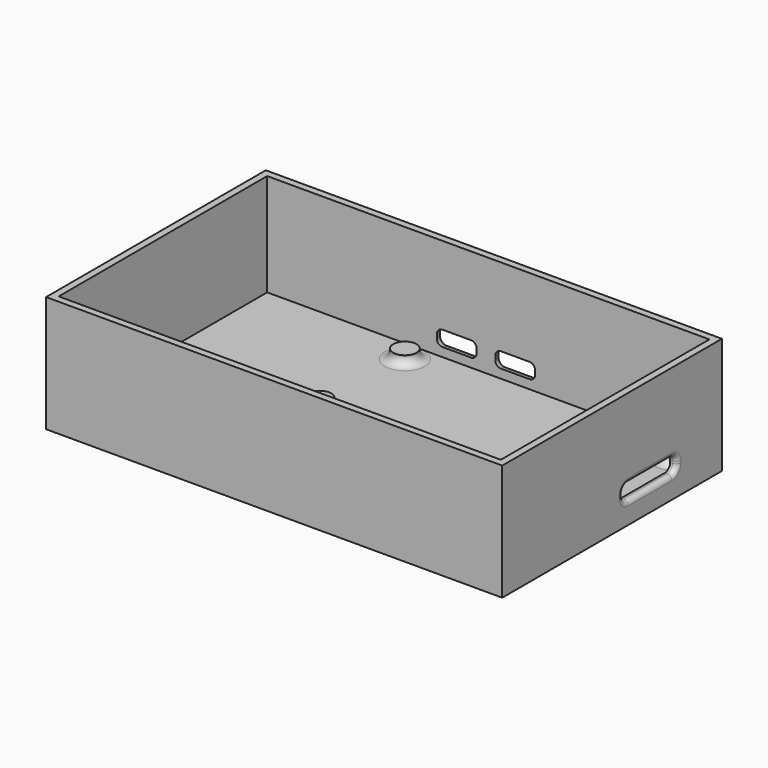
from build123d import *

# Parameters (mm, degrees)
SKETCH034_W     = 98
SKETCH034_H     = 59
PAD018_DEPTH    = 25
SKETCH035_W     = 95
SKETCH035_H     = 56
POCKET011_DEPTH = 22
SKETCH036_R     = 2.5
PAD019_DEPTH    = 2
FILLET005_R     = 1.8
POCKET012_DEPTH = 2
POCKET013_DEPTH = 2
FILLET006_R     = 1


with BuildPart() as part:
    # Sketch034 → Pad018 (new body)
    with BuildSketch(Plane.XY):
        Rectangle(SKETCH034_W, SKETCH034_H)
    extrude(amount=PAD018_DEPTH)

    # Sketch035 (on Face6 of Pad018) → Pocket011 (cut)
    with BuildSketch(Plane.XY.offset(25)):
        Rectangle(SKETCH035_W, SKETCH035_H)
    extrude(amount=-POCKET011_DEPTH, mode=Mode.SUBTRACT)

    # Sketch036 (on Face11 of Pocket011) → Pad019 (join)
    with BuildSketch(Plane.XY.offset(3)):
        with Locations((-14.34, 0.64)):
            Circle(SKETCH036_R)
        with Locations((-14.34, 23.535435)):
            Circle(SKETCH036_R)
        with Locations((43.701202, 23.535435)):
            Circle(SKETCH036_R)
        with Locations((43.701202, 0.64)):
            Circle(SKETCH036_R)
    extrude(amount=PAD019_DEPTH)

    # Fillet005
    fillet005_edges = [part.edges().sort_by_distance(p)[0] for p in [
        (-16.84, 23.535435, 3),
        (-16.84, 0.64, 3),
        (41.201202, 23.535435, 3),
        (41.201202, 0.64, 3),
    ]]
    fillet(fillet005_edges, radius=FILLET005_R)

    # Sketch038 (on Face16 of Fillet005) → Pocket012 (cut)
    with BuildSketch(Plane.YZ.offset(49)):
        with BuildLine():
            Line((2.9132905237, 6.4776863938), (2.9132905237, 6.0256358886))
            ThreePointArc((2.9132905237, 6.0256358886), (3.3291861446, 5.0215750402), (4.333246993, 4.6056794194))
            Line((4.333246993, 4.6056794194), (16.053786, 4.6056794194))
            ThreePointArc((16.053786, 4.6056794194), (17.0578468484, 5.0215750402), (17.4737424693, 6.0256358886))
            Line((17.4737424693, 6.0256358886), (17.4737424693, 6.4776863938))
            ThreePointArc((17.4737424693, 6.4776863938), (17.0578468484, 7.4817472422), (16.053786, 7.8976428631))
            Line((16.053786, 7.8976428631), (4.333246993, 7.8976428631))
            ThreePointArc((4.333246993, 7.8976428631), (3.3291861446, 7.4817472422), (2.9132905237, 6.4776863938))
        make_face()
    extrude(amount=-POCKET012_DEPTH, mode=Mode.SUBTRACT)

    # Sketch039 (on Face26 of Pocket012) → Pocket013 (cut)
    with BuildSketch(Plane(origin=(0, 29.5, 0), x_dir=(-1, 0, 0), z_dir=(0, 1, 0))):
        with BuildLine():
            Line((-41.6345647291, 7.9083563717), (-41.6345647291, 6.628736229))
            ThreePointArc((-41.6345647291, 6.628736229), (-41.1322711271, 5.4160922027), (-39.9196271008, 4.9137986007))
            Line((-39.9196271008, 4.9137986007), (-29.6703, 4.9137986007))
            ThreePointArc((-29.6703, 4.9137986007), (-28.4576559737, 5.4160922027), (-27.9553623717, 6.628736229))
            Line((-27.9553623717, 6.628736229), (-27.9553623717, 7.9083563717))
            ThreePointArc((-27.9553623717, 7.9083563717), (-28.4576559737, 9.121000398), (-29.6703, 9.623294))
            Line((-29.6703, 9.623294), (-39.9196271008, 9.623294))
            ThreePointArc((-39.9196271008, 9.623294), (-41.1322711271, 9.121000398), (-41.6345647291, 7.9083563717))
        make_face()
        with BuildLine():
            Line((-10.076743704, 6.9722353501), (-10.076743704, 6.1354485426))
            ThreePointArc((-10.076743704, 6.1354485426), (-9.7189307203, 5.2716115844), (-8.8550937622, 4.9137986007))
            Line((-8.8550937622, 4.9137986007), (-2.7237187171, 4.9137986007))
            ThreePointArc((-2.7237187171, 4.9137986007), (-1.859881759, 5.2716115844), (-1.5020687753, 6.1354485426))
            Line((-1.5020687753, 6.1354485426), (-1.5020687753, 6.9722353501))
            ThreePointArc((-1.5020687753, 6.9722353501), (-1.859881759, 7.8360723082), (-2.7237187171, 8.193885292))
            Line((-2.7237187171, 8.193885292), (-8.8550937622, 8.193885292))
            ThreePointArc((-8.8550937622, 8.193885292), (-9.7189307203, 7.8360723082), (-10.076743704, 6.9722353501))
        make_face()
        with BuildLine():
            Line((2.4740100235, 6.9684360306), (2.4740100235, 6.139247862))
            ThreePointArc((2.4740100235, 6.139247862), (2.8329358021, 5.2727243793), (3.6994592848, 4.9137986007))
            Line((3.6994592848, 4.9137986007), (9.8293706619, 4.9137986007))
            ThreePointArc((9.8293706619, 4.9137986007), (10.6958941446, 5.2727243793), (11.0548199233, 6.139247862))
            Line((11.0548199233, 6.139247862), (11.0548199233, 6.9684360306))
            ThreePointArc((11.0548199233, 6.9684360306), (10.6958941446, 7.8349595133), (9.8293706619, 8.193885292))
            Line((9.8293706619, 8.193885292), (3.6994592848, 8.193885292))
            ThreePointArc((3.6994592848, 8.193885292), (2.8329358021, 7.8349595133), (2.4740100235, 6.9684360306))
        make_face()
    extrude(amount=-POCKET013_DEPTH, mode=Mode.SUBTRACT)

    # Fillet006
    fillet006_edges = [part.edges().sort_by_distance(p)[0] for p in [
        (28.457656, 29.5, 5.416092),
        (34.794964, 29.5, 4.913799),
        (27.955362, 29.5, 7.268546),
        (28.457656, 29.5, 9.121),
        (34.794964, 29.5, 9.623294),
        (41.132271, 29.5, 9.121),
        (41.634565, 29.5, 7.268546),
        (41.132271, 29.5, 5.416092),
        (1.502069, 29.5, 6.553842),
        (1.859882, 29.5, 5.271612),
        (5.789406, 29.5, 4.913799),
        (9.718931, 29.5, 5.271612),
        (9.718931, 29.5, 7.836072),
        (10.076744, 29.5, 6.553842),
        (5.789406, 29.5, 8.193885),
        (1.859882, 29.5, 7.836072),
        (-6.764415, 29.5, 4.913799),
        (-2.832936, 29.5, 5.272724),
        (-2.47401, 29.5, 6.553842),
        (-2.832936, 29.5, 7.83496),
        (-10.695894, 29.5, 5.272724),
        (-11.05482, 29.5, 6.553842),
        (-10.695894, 29.5, 7.83496),
        (-6.764415, 29.5, 8.193885),
        (49, 17.057847, 7.481747),
        (49, 17.057847, 5.021575),
        (49, 10.193516, 4.605679),
        (49, 10.193516, 7.897643),
        (49, 3.329186, 7.481747),
        (49, 3.329186, 5.021575),
        (49, 2.913291, 6.251661),
        (49, 17.473742, 6.251661),
    ]]
    fillet(fillet006_edges, radius=FILLET006_R)


solid = part.part
